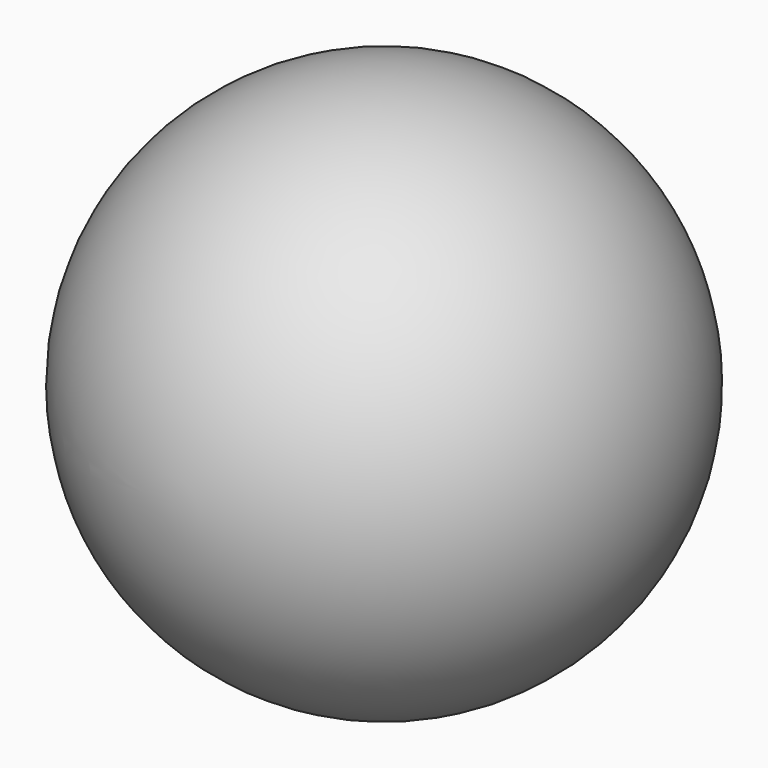
from build123d import *


with BuildPart() as f1:
    # F0 (on Top) → F1 (revolve)
    with BuildSketch(Plane.XY):
        with BuildLine():
            Line((0, 0), (0, 25.284373))
            ThreePointArc((0, 25.284373), (-25.284373, 0), (0, -25.284373))
            Line((0, -25.284373), (0, 0))
        make_face()
    revolve(axis=Axis((0, 20.575365, 0), (0, 1, 0)))


solid = f1.part
